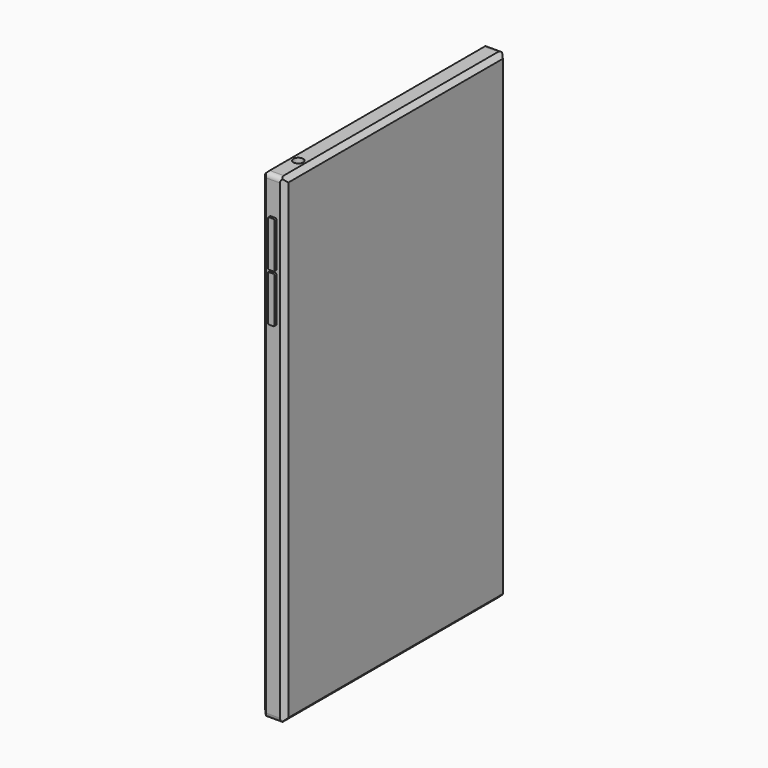
from build123d import *

# Parameters (mm, degrees)
F0_W      = 76.2
F0_H      = 131.982272
F1_DEPTH  = 6.35
F3_SIZE   = 1.27
F4_R      = 1.27
F6_DEPTH  = 2.54
F7_R      = 1.342424
F8_DEPTH  = 8.89
F9_DEPTH  = 3.175
F11_DEPTH = 3.175


with BuildPart() as f1:
    # F0 (on Right) → F1 (new body)
    with BuildSketch(Plane.YZ):
        with Locations((0, 2.088005)):
            Rectangle(F0_W, F0_H)
    extrude(amount=F1_DEPTH)

    # F3
    f3_edges = [f1.edges().sort_by_distance(p)[0] for p in [
        (6.35, 38.1, 2.088005),
        (0, 38.1, 2.088005),
        (6.35, 0, -63.903131),
        (0, 0, -63.903131),
        (6.35, -38.1, 2.088005),
        (0, -38.1, 2.088005),
        (6.35, 0, 68.079141),
        (0, 0, 68.079141),
    ]]
    chamfer(f3_edges, length=F3_SIZE)

    # F4
    f4_edges = [f1.edges().sort_by_distance(p)[0] for p in [
        (3.175, -38.1, 68.079141),
        (3.175, -38.1, -63.903131),
        (3.175, 38.1, 68.079141),
        (3.175, 38.1, -63.903131),
    ]]
    fillet(f4_edges, radius=F4_R)

    # F5 (on face) → F6 (cut)
    with BuildSketch(Plane.XZ.offset(38.1)):
        with BuildLine():
            Line((3.81, 57.961643), (2.54, 57.961643))
            ThreePointArc((2.54, 57.961643), (2.360395, 57.887248), (2.286, 57.707643))
            Line((2.286, 57.707643), (2.286, 45.515643))
            ThreePointArc((2.286, 45.515643), (2.360395, 45.336038), (2.54, 45.261643))
            Line((2.54, 45.261643), (3.81, 45.261643))
            ThreePointArc((3.81, 45.261643), (3.989605, 45.336038), (4.064, 45.515643))
            Line((4.064, 45.515643), (4.064, 57.707643))
            ThreePointArc((4.064, 57.707643), (3.989605, 57.887248), (3.81, 57.961643))
        make_face()
        with BuildLine():
            Line((3.81, 44.681029), (2.54, 44.681029))
            ThreePointArc((2.54, 44.681029), (2.360395, 44.606634), (2.286, 44.427029))
            Line((2.286, 44.427029), (2.286, 32.249487))
            ThreePointArc((2.286, 32.249487), (2.360395, 32.069882), (2.54, 31.995487))
            Line((2.54, 31.995487), (3.81, 31.995487))
            ThreePointArc((3.81, 31.995487), (3.989605, 32.069882), (4.064, 32.249487))
            Line((4.064, 32.249487), (4.064, 44.427029))
            ThreePointArc((4.064, 44.427029), (3.989605, 44.606634), (3.81, 44.681029))
        make_face()
    extrude(amount=-F6_DEPTH, mode=Mode.SUBTRACT)

    # F7 (on face) → F8 (cut)
    with BuildSketch(Plane.XY.offset(68.079141)):
        with Locations((3.175, -29.422283)):
            Circle(F7_R)
    extrude(amount=-F8_DEPTH, mode=Mode.SUBTRACT)


with BuildPart() as f9:
    # F6_face (on face) → F9 (new body)
    with BuildSketch(Plane(origin=(3.175, -35.56, 38.338258), x_dir=(1, 0, 0), z_dir=(0, -1, 0))):
        with BuildLine():
            Line((0.889, -6.088771), (0.889, 6.088771))
            ThreePointArc((0.889, 6.088771), (0.814605, 6.268376), (0.635, 6.342771))
            Line((0.635, 6.342771), (-0.635, 6.342771))
            ThreePointArc((-0.635, 6.342771), (-0.814605, 6.268376), (-0.889, 6.088771))
            Line((-0.889, 6.088771), (-0.889, -6.088771))
            ThreePointArc((-0.889, -6.088771), (-0.814605, -6.268376), (-0.635, -6.342771))
            Line((-0.635, -6.342771), (0.635, -6.342771))
            ThreePointArc((0.635, -6.342771), (0.814605, -6.268376), (0.889, -6.088771))
        make_face()
    extrude(amount=F9_DEPTH)


with BuildPart() as f11:
    # F10 (on face) → F11 (new body)
    with BuildSketch(Plane.XZ.offset(35.56)):
        with BuildLine():
            Line((4.064, 45.515643), (4.064, 57.707643))
            ThreePointArc((4.064, 57.707643), (3.989605, 57.887248), (3.81, 57.961643))
            Line((3.81, 57.961643), (2.54, 57.961643))
            ThreePointArc((2.54, 57.961643), (2.360395, 57.887248), (2.286, 57.707643))
            Line((2.286, 57.707643), (2.286, 45.515643))
            ThreePointArc((2.286, 45.515643), (2.360395, 45.336038), (2.54, 45.261643))
            Line((2.54, 45.261643), (3.81, 45.261643))
            ThreePointArc((3.81, 45.261643), (3.989605, 45.336038), (4.064, 45.515643))
        make_face()
    extrude(amount=F11_DEPTH)


solid = Compound([f1.part, f9.part, f11.part])
